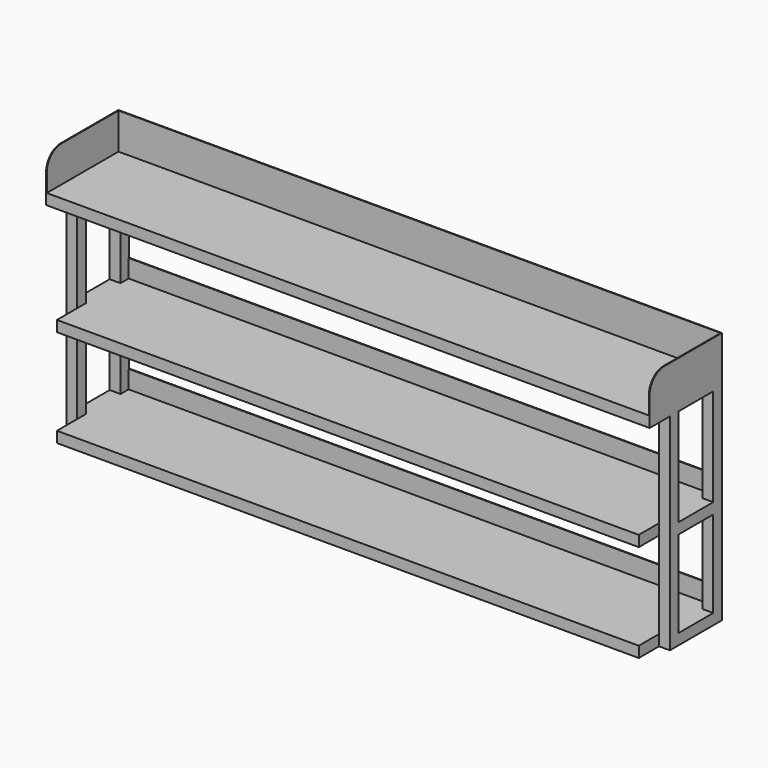
from build123d import *

# Parameters (mm, degrees)
F0_W           = 1670
F0_H           = 250
F1_DEPTH       = 30
F2_W           = 30
F2_H           = 30
F3_DEPTH       = 570
F4_W           = 250
F4_H           = 30
F5_DEPTH       = 805
F5_DEPTH_BACK  = 805
F7_DEPTH       = 100
F8_R           = 50
F9_W           = 1610
F9_H           = 2
F10_DEPTH      = 50
F11_W          = 1610
F11_H          = 2
F12_DEPTH      = 50
F13_W          = 30
F13_H          = 30
F14_DEPTH      = 25
F14_DEPTH_BACK = 95


with BuildPart() as f1:
    # F0 (on Top) → F1 (new body)
    with BuildSketch(Plane.XY):
        Rectangle(F0_W, F0_H)
    extrude(amount=F1_DEPTH)

    # F2 (on face) → F3 (join)
    with BuildSketch(Plane(origin=(0, 0, 0), x_dir=(1, 0, 0), z_dir=(0, 0, -1))):
        with Locations((-820, 40)):
            Rectangle(F2_W, F2_H)
        with Locations((820, 40)):
            Rectangle(F2_W, F2_H)
        with Locations((820, -110)):
            Rectangle(F2_W, F2_H)
        with Locations((-820, -110)):
            Rectangle(F2_W, F2_H)
    extrude(amount=F3_DEPTH)

    # F4 (on Right) → F5 (join, two sides)
    with BuildSketch(Plane.YZ) as f5_sk:
        with Locations((0, -285)):
            Rectangle(F4_W, F4_H)
        with Locations((0, -555)):
            Rectangle(F4_W, F4_H)
    extrude(amount=F5_DEPTH)
    extrude(f5_sk.sketch, amount=-F5_DEPTH_BACK)

    # F6 (on face) → F7 (join)
    with BuildSketch(Plane.XY.offset(30)):
        Polygon((-835, 125), (-835, -125), (-833, -125), (-833, 123), (833, 123), (833, -125), (835, -125), (835, 125), align=None)
    extrude(amount=F7_DEPTH)

    # F8
    f8_edges = [f1.edges().sort_by_distance(p)[0] for p in [
        (-834, -125, 130),
        (834, -125, 130),
    ]]
    fillet(f8_edges, radius=F8_R)

    # F9 (on face) → F10 (join)
    with BuildSketch(Plane.XY.offset(-270)):
        with Locations((0, 124)):
            Rectangle(F9_W, F9_H)
    extrude(amount=F10_DEPTH)

    # F11 (on face) → F12 (join)
    with BuildSketch(Plane.XY.offset(-540)):
        with Locations((0, 124)):
            Rectangle(F11_W, F11_H)
    extrude(amount=F12_DEPTH)

    # F13 (on Front) → F14 (join, two sides)
    with BuildSketch(Plane.XZ) as f14_sk:
        with Locations((820, -285)):
            Rectangle(F13_W, F13_H)
        with Locations((820, -555)):
            Rectangle(F13_W, F13_H)
        with Locations((-820, -555)):
            Rectangle(F13_W, F13_H)
        with Locations((-820, -285)):
            Rectangle(F13_W, F13_H)
    extrude(amount=F14_DEPTH)
    extrude(f14_sk.sketch, amount=-F14_DEPTH_BACK)


solid = f1.part
